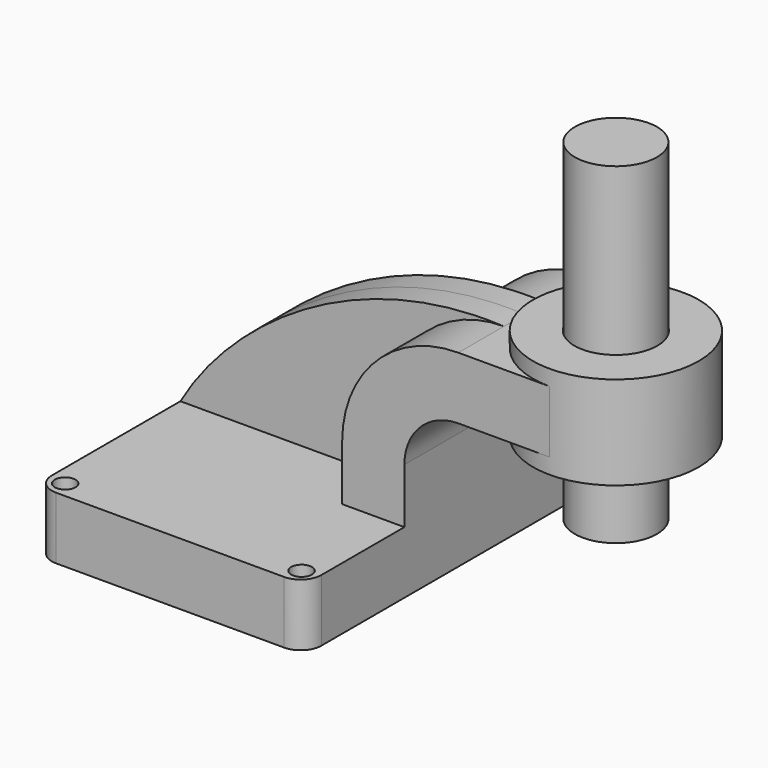
from build123d import *

# Parameters (mm, degrees)
F1_DEPTH  = 63.5
F0_W      = 25.4
F0_H      = 19.05
F2_DEPTH  = 25.4
F3_DEPTH  = 7.9375
F5_R      = 6.35
F6_R      = 12.7
F7_DEPTH  = 30.48
F8_R      = 3.175
F9_DEPTH  = 25.4
F10_R     = 12.573
F11_DEPTH = 50.8


with BuildPart() as f1:
    # F0 (on Front) → F1 (new body, symmetric)
    with BuildSketch(Plane.XZ):
        Polygon((41.275, -9.525), (41.275, 9.525), (22.225, 9.525), (-41.275, 9.525), (-41.275, -9.525), align=None)
    extrude(amount=F1_DEPTH, both=True)

    # F0 (on Front) → F2 (join, symmetric)
    with BuildSketch(Plane.XZ):
        with BuildLine():
            Line((22.225, 9.525), (41.275, 9.525))
            Line((41.275, 9.525), (41.275, 26.3652))
            ThreePointArc((41.275, 26.3652), (46.1106670426, 38.0395329574), (57.785, 42.8752))
            Line((57.785, 42.8752), (60.325, 42.8752))
            Line((60.325, 42.8752), (60.325, 61.9252))
            Line((60.325, 61.9252), (57.785, 61.9252))
            ThreePointArc((57.785, 61.9252), (32.640282861, 51.509917139), (22.225, 26.3652))
            Line((22.225, 26.3652), (22.225, 9.525))
        make_face()
        with Locations((73.025, 52.4002)):
            Rectangle(F0_W, F0_H)
    extrude(amount=F2_DEPTH, both=True)

    # F0 (on Front) → F3 (join, symmetric)
    with BuildSketch(Plane.XZ):
        with BuildLine():
            Line((-41.275, 9.525), (22.225, 9.525))
            Line((22.225, 9.525), (22.225, 26.3652))
            ThreePointArc((22.225, 26.3652), (32.640282861, 51.509917139), (57.785, 61.9252))
            add(Edge.make_bspline(
                [(-41.275, 9.525), (-25.9972773492, 36.2750738859), (11.5414904431, 64.1821846366), (57.785, 61.9252)],
                knots=[0, 0, 0, 0, 112.0654476636, 112.0654476636, 112.0654476636, 112.0654476636], degree=3))
        make_face()
    extrude(amount=F3_DEPTH, both=True)

    # F0 (on Front) → F4 (revolve)
    with BuildSketch(Plane.XZ):
        Polygon((85.725, 61.9252), (85.725, 42.8752), (85.725, 38.1), (111.125, 38.1), (111.125, 66.675), (85.725, 66.675), align=None)
    revolve(axis=Axis((85.725, 0, 52.3875), (0, 0, -1)))

    # F5
    f5_edges = [f1.edges().sort_by_distance(p)[0] for p in [
        (-41.275, -63.5, 0),
        (41.275, -63.5, 0),
        (41.275, 63.5, 0),
        (-41.275, 63.5, 0),
    ]]
    fillet(f5_edges, radius=F5_R)

    # F6 (on face) → F7 (cut)
    with BuildSketch(Plane.XY.offset(66.675)):
        with Locations((85.725, 0)):
            Circle(F6_R)
    extrude(amount=-F7_DEPTH, mode=Mode.SUBTRACT)

    # F8 (on face) → F9 (cut)
    with BuildSketch(Plane.XY.offset(9.525)):
        with Locations((-36.195, 58.42)):
            Circle(F8_R)
        with Locations((36.195, 58.42)):
            Circle(F8_R)
        with Locations((36.195, -58.42)):
            Circle(F8_R)
        with Locations((-36.195, -58.42)):
            Circle(F8_R)
    extrude(amount=-F9_DEPTH, mode=Mode.SUBTRACT)


with BuildPart() as f11:
    # F10 (on face) → F11 (new body, symmetric)
    with BuildSketch(Plane.XY.offset(66.675)):
        with Locations((85.725, 0)):
            Circle(F10_R)
    extrude(amount=F11_DEPTH, both=True)


solid = Compound([f1.part, f11.part])
